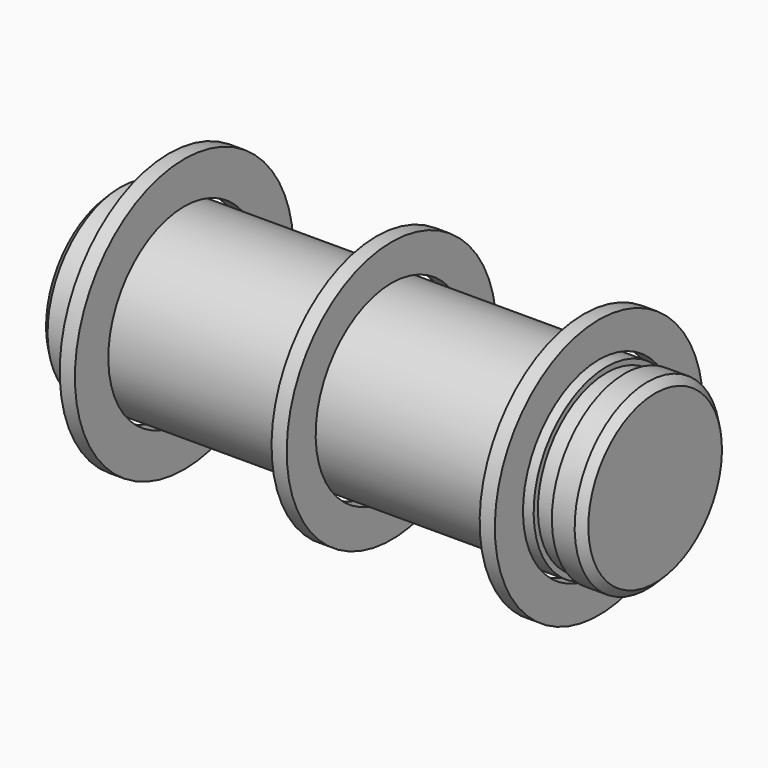
from build123d import *

# Parameters (mm, degrees)
F0_W   = 1
F0_H   = 2.317471
F0_W_2 = 0.5
F0_H_2 = 2.382425
F0_H_3 = 2.75


with BuildPart() as f1:
    # F0 (on Front) → F1 (revolve)
    with BuildSketch(Plane.XZ):
        Polygon((2, 6), (0.5, 6), (0, 5.5), (0, 0), (19.005013, 0), (35.705013, 0), (35.705013, 5.5), (35.205013, 6), (33.705013, 6), (33.705013, 5.65), (32.505013, 5.65), (32.505013, 6), (19.005013, 6), (16.7, 6), (3.2, 6), (3.2, 5.65), (2, 5.65), align=None)
        with Locations((31.505013, 7.408735)):
            Rectangle(F0_W, F0_H)
        with Locations((18.102507, 7.441212)):
            Rectangle(F0_W_2, F0_H_2)
        with Locations((17.602507, 7.441212)):
            Rectangle(F0_W_2, F0_H_2)
        with Locations((4.2, 7.625)):
            Rectangle(F0_W, F0_H_3)
    revolve(axis=Axis((9.502507, 0, 0), (-1, 0, 0)))


solid = f1.part
